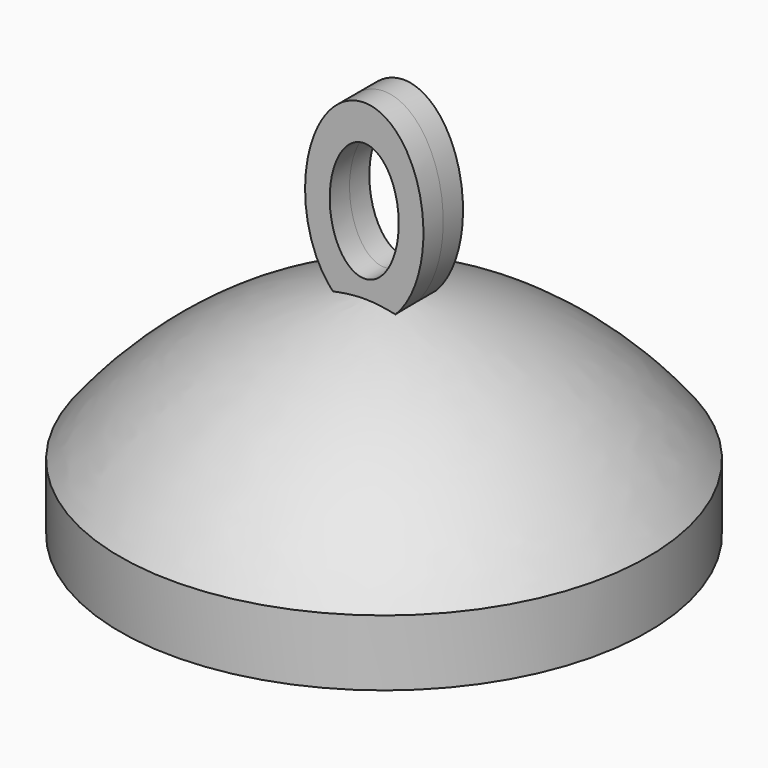
from build123d import *

# Parameters (mm, degrees)
F2_DEPTH = 8
F4_DEPTH = 3
F5_DEPTH = 3


with BuildPart() as f1:
    # F0 (on Front) → F1 (revolve)
    with BuildSketch(Plane.XZ):
        with BuildLine():
            Line((0, 13.9473669927), (0, 18.9473669927))
            ThreePointArc((0, 18.9473669927), (-17.7893792324, 12.4957464278), (-32, 0))
            Line((-32, 0), (-27, 0))
            ThreePointArc((-27, 0), (-14.8885281498, 9.6616646805), (0, 13.9473669927))
        make_face()
    revolve(axis=Axis((0, 0, 16.4473669927), (0, 0, -1)))

    # F2 (add): a face of the model
    f2_faces = [f1.faces().sort_by_distance(p)[0] for p in [
        (31.0949033201, 0, 0),
    ]]
    extrude(f2_faces, amount=F2_DEPTH)

    # F3 (on Front) → F4 (join)
    with BuildSketch(Plane.XZ):
        with BuildLine():
            add(Edge.make_bspline(
                [(0, 16.1834862083), (12.4266098409, 16.1834862083), (6.2133049204, 33.5229365155), (0, 50.8623868227), (-6.2133049204, 33.5229365155), (-12.4266098409, 16.1834862083), (0, 16.1834862083)],
                knots=[0, 0, 0, 2.0943951024, 2.0943951024, 4.1887902048, 4.1887902048, 6.2831853072, 6.2831853072, 6.2831853072], degree=2, weights=[1, 0.5, 1, 0.5, 1, 0.5, 1]))
        make_face()
        with BuildLine():
            add(Edge.make_bspline(
                [(0, 20.5183494836), (7.2430132247, 20.5183494836), (3.6215066123, 31.3555048779), (0, 42.1926602721), (-3.6215066123, 31.3555048779), (-7.2430132247, 20.5183494836), (0, 20.5183494836)],
                knots=[0, 0, 0, 2.0943951024, 2.0943951024, 4.1887902048, 4.1887902048, 6.2831853072, 6.2831853072, 6.2831853072], degree=2, weights=[1, 0.5, 1, 0.5, 1, 0.5, 1]))
        make_face(mode=Mode.SUBTRACT)
    extrude(amount=F4_DEPTH)

    # F5 (add): a face of the model
    f5_faces = [f1.faces().sort_by_distance(p)[0] for p in [
        (6.68e-08, 0, 39.0470176342),
    ]]
    extrude(f5_faces, amount=F5_DEPTH)


solid = f1.part
